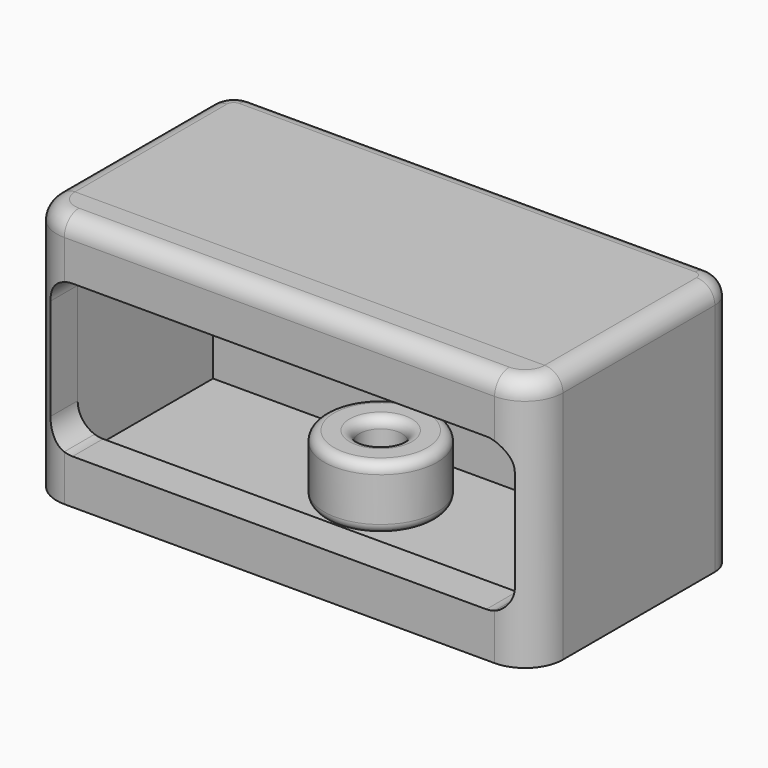
from build123d import *

# Parameters (mm, degrees)
F1_DEPTH  = 254
F2_DEPTH  = 254
F3_W      = 467.3599997461
F3_H      = 213.3599997461
F4_DEPTH  = 170.18
F5_DEPTH  = 170.688
F6_R      = 56.6515592814
F6_R_2    = 21.3213706436
F7_DEPTH  = 63.5
F8_R      = 9.8113639175
F10_DEPTH = 50.8
F11_R     = 18.3963073453
F11_2_R   = 18.3963073453


with BuildPart() as f1:
    # F0 (on Top) → F1 (new body)
    with BuildSketch(Plane.XY):
        with BuildLine():
            Line((-215.9, -127), (215.9, -127))
            ThreePointArc((215.9, -127), (242.8407683632, -115.8407683632), (254, -88.9))
            Line((254, -88.9), (-254, -88.9))
            ThreePointArc((-254, -88.9), (-242.8407683632, -115.8407683632), (-215.9, -127))
        make_face()
    extrude(amount=F1_DEPTH)

    # F9 (on face) → F10 (cut)
    with BuildSketch(Plane.XZ.offset(127)):
        with BuildLine():
            Line((-207.5579591751, 44.8795184493), (207.5579591751, 44.8795184493))
            ThreePointArc((207.5579591751, 44.8795184493), (211.7880535175, 45.2342334269), (215.9, 46.2884710592))
            Line((215.9, 46.2884710592), (215.9, 196.1787982422))
            ThreePointArc((215.9, 196.1787982422), (211.7880535175, 197.2330358745), (207.5579591751, 197.5877508521))
            Line((207.5579591751, 197.5877508521), (-207.5579591751, 197.5877508521))
            ThreePointArc((-207.5579591751, 197.5877508521), (-211.7880535175, 197.2330358745), (-215.9, 196.1787982422))
            Line((-215.9, 196.1787982422), (-215.9, 46.2884710592))
            ThreePointArc((-215.9, 46.2884710592), (-211.7880535175, 45.2342334269), (-207.5579591751, 44.8795184493))
        make_face()
        with BuildLine():
            Line((215.9, 196.1787982422), (215.9, 46.2884710592))
            ThreePointArc((215.9, 46.2884710592), (228.2587784458, 55.5609559677), (232.9579591751, 70.2795184493))
            Line((232.9579591751, 70.2795184493), (232.9579591751, 172.1877508521))
            ThreePointArc((232.9579591751, 172.1877508521), (228.2587784458, 186.9063133337), (215.9, 196.1787982422))
        make_face()
        with BuildLine():
            ThreePointArc((-232.9579591751, 70.2795184493), (-228.2587784458, 55.5609559677), (-215.9, 46.2884710592))
            Line((-215.9, 46.2884710592), (-215.9, 196.1787982422))
            ThreePointArc((-215.9, 196.1787982422), (-228.2587784458, 186.9063133337), (-232.9579591751, 172.1877508521))
            Line((-232.9579591751, 172.1877508521), (-232.9579591751, 70.2795184493))
        make_face()
    extrude(amount=-F10_DEPTH, mode=Mode.SUBTRACT)

    # F11
    f11_edges = [f1.edges().sort_by_distance(p)[0] for p in [
        (242.840768, -115.840768, 254),
        (-242.840768, -115.840768, 254),
        (0, -127, 254),
    ]]
    fillet(f11_edges, radius=F11_R)


with BuildPart() as f2:
    # F0 (on Top) → F2 (new body)
    with BuildSketch(Plane.XY):
        with BuildLine():
            Line((-254, -88.9), (254, -88.9))
            Line((254, -88.9), (254, 101.6))
            ThreePointArc((254, 101.6), (246.5605122421, 119.5605122421), (228.6, 127))
            Line((228.6, 127), (-228.6, 127))
            ThreePointArc((-228.6, 127), (-246.5605122421, 119.5605122421), (-254, 101.6))
            Line((-254, 101.6), (-254, -88.9))
        make_face()
    extrude(amount=F2_DEPTH)


with BuildPart() as f4:
    # F3 (on face) → F4 (new body)
    with BuildSketch(Plane.XZ.offset(88.9)):
        with Locations((0, 127)):
            Rectangle(F3_W, F3_H)
    extrude(amount=-F4_DEPTH)


with BuildPart() as f5_tool:
    # F3 (on face) → F5 (new body)
    with BuildSketch(Plane.XZ.offset(88.9)):
        with Locations((0, 127)):
            Rectangle(F3_W, F3_H)
    extrude(amount=-F5_DEPTH)


with BuildPart() as f2_1:
    add(f2.part)

    # F5: cut by f5_tool
    add(f5_tool.part, mode=Mode.SUBTRACT)

    # F11#2
    f11_2_edges = [f2_1.edges().sort_by_distance(p)[0] for p in [
        (254, 6.35, 254),
        (246.560512, 119.560512, 254),
        (0, 127, 254),
        (-246.560512, 119.560512, 254),
        (-254, 6.35, 254),
    ]]
    fillet(f11_2_edges, radius=F11_2_R)


with BuildPart() as f4_1:
    add(f4.part)

    # F5: cut by f5_tool
    add(f5_tool.part, mode=Mode.SUBTRACT)


with BuildPart() as f7:
    # F6 (on face) → F7 (new body)
    with BuildSketch(Plane.XY.offset(20.320000127)):
        Circle(F6_R)
        Circle(F6_R_2, mode=Mode.SUBTRACT)
    extrude(amount=F7_DEPTH)

    # F8
    f8_edges = [f7.edges().sort_by_distance(p)[0] for p in [
        (-56.651559, 0, 83.82),
        (-21.321371, 0, 83.82),
        (21.321371, 0, 52.07),
        (-21.321371, 0, 20.32),
        (-56.651559, 0, 20.32),
    ]]
    fillet(f8_edges, radius=F8_R)


solid = Compound([f1.part, f2_1.part, f7.part])
